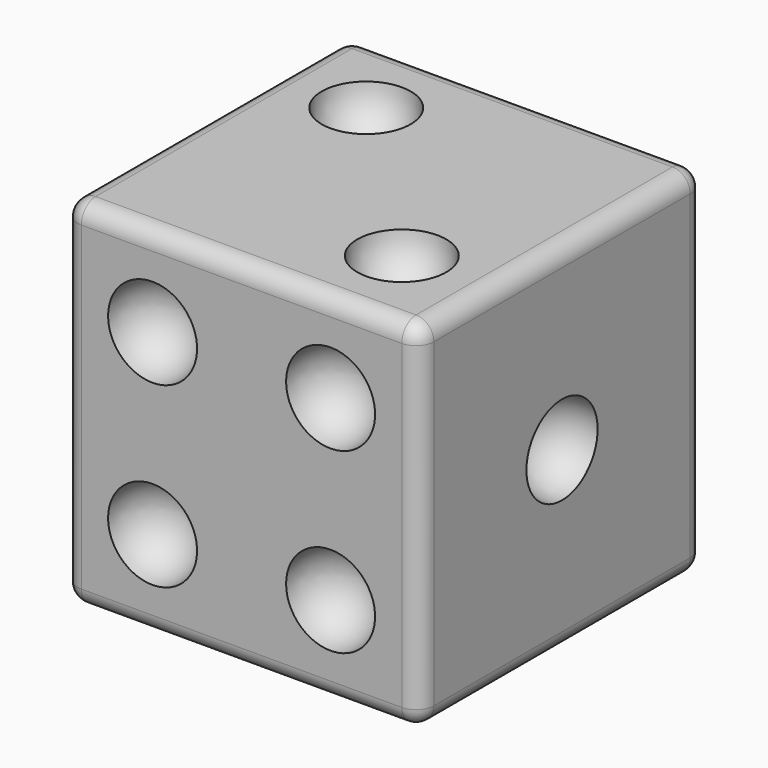
from build123d import *

# Parameters (mm, degrees)
SKETCH_W  = 20
SKETCH_H  = 20
PAD_DEPTH = 20
FILLET_R  = 1


with BuildPart() as part:
    # Sketch → Pad (new body)
    with BuildSketch(Plane.XY):
        Rectangle(SKETCH_W, SKETCH_H)
    extrude(amount=PAD_DEPTH)

    # Sphere015 → Sphere015 (revolve, cut)
    with BuildSketch(Plane(origin=(-10, 5, 4), x_dir=(0, 0, -1), z_dir=(0, -1, 0))):
        with BuildLine():
            ThreePointArc((0, -2.5), (2.5, 0), (0, 2.5))
            Line((0, 2.5), (0, -2.5))
        make_face()
    revolve(axis=Axis((-10, 5, 4), (1, 0, 0)), mode=Mode.SUBTRACT)

    # Sphere016 → Sphere016 (revolve, cut)
    with BuildSketch(Plane(origin=(-10, -5, 4), x_dir=(0, 0, 1), z_dir=(0, 1, 0))):
        with BuildLine():
            ThreePointArc((0, -2.5), (2.5, 0), (0, 2.5))
            Line((0, 2.5), (0, -2.5))
        make_face()
    revolve(axis=Axis((-10, -5, 4), (1, 0, 0)), mode=Mode.SUBTRACT)

    # Sphere017 → Sphere017 (revolve, cut)
    with BuildSketch(Plane(origin=(-10, -5, 10), x_dir=(0, 0, -1), z_dir=(0, -1, 0))):
        with BuildLine():
            ThreePointArc((0, -2.5), (2.5, 0), (0, 2.5))
            Line((0, 2.5), (0, -2.5))
        make_face()
    revolve(axis=Axis((-10, -5, 10), (1, 0, 0)), mode=Mode.SUBTRACT)

    # Sphere018 → Sphere018 (revolve, cut)
    with BuildSketch(Plane(origin=(-10, -5, 16), x_dir=(0, 0, 1), z_dir=(0, 1, 0))):
        with BuildLine():
            ThreePointArc((0, -2.5), (2.5, 0), (0, 2.5))
            Line((0, 2.5), (0, -2.5))
        make_face()
    revolve(axis=Axis((-10, -5, 16), (1, 0, 0)), mode=Mode.SUBTRACT)

    # Sphere019 → Sphere019 (revolve, cut)
    with BuildSketch(Plane(origin=(-10, 5, 16), x_dir=(0, 0, -1), z_dir=(0, -1, 0))):
        with BuildLine():
            ThreePointArc((0, -2.5), (2.5, 0), (0, 2.5))
            Line((0, 2.5), (0, -2.5))
        make_face()
    revolve(axis=Axis((-10, 5, 16), (1, 0, 0)), mode=Mode.SUBTRACT)

    # Sphere020 → Sphere020 (revolve, cut)
    with BuildSketch(Plane(origin=(-10, 5, 10), x_dir=(0, 0, 1), z_dir=(0, 1, 0))):
        with BuildLine():
            ThreePointArc((0, -2.5), (2.5, 0), (0, 2.5))
            Line((0, 2.5), (0, -2.5))
        make_face()
    revolve(axis=Axis((-10, 5, 10), (1, 0, 0)), mode=Mode.SUBTRACT)

    # Sphere → Sphere (revolve, cut)
    with BuildSketch(Plane(origin=(-6, 6, 0), x_dir=(0, 1, 0), z_dir=(-1, 0, 0))):
        with BuildLine():
            ThreePointArc((0, -2.5), (2.5, 0), (0, 2.5))
            Line((0, 2.5), (0, -2.5))
        make_face()
    revolve(axis=Axis((-6, 6, 0), (0, 0, -1)), mode=Mode.SUBTRACT)

    # Sphere021 → Sphere021 (revolve, cut)
    with BuildSketch(Plane(origin=(6, 6, 0), x_dir=(0, 1, 0), z_dir=(-1, 0, 0))):
        with BuildLine():
            ThreePointArc((0, -2.5), (2.5, 0), (0, 2.5))
            Line((0, 2.5), (0, -2.5))
        make_face()
    revolve(axis=Axis((6, 6, 0), (0, 0, -1)), mode=Mode.SUBTRACT)

    # Sphere022 → Sphere022 (revolve, cut)
    with BuildSketch(Plane.XZ):
        with BuildLine():
            ThreePointArc((0, -2.5), (2.5, 0), (0, 2.5))
            Line((0, 2.5), (0, -2.5))
        make_face()
    revolve(axis=Axis((0, 0, 0), (0, 0, 1)), mode=Mode.SUBTRACT)

    # Sphere023 → Sphere023 (revolve, cut)
    with BuildSketch(Plane(origin=(-6, -6, 0), x_dir=(1, 0, 0), z_dir=(0, 1, 0))):
        with BuildLine():
            ThreePointArc((0, -2.5), (2.5, 0), (0, 2.5))
            Line((0, 2.5), (0, -2.5))
        make_face()
    revolve(axis=Axis((-6, -6, 0), (0, 0, -1)), mode=Mode.SUBTRACT)

    # Sphere024 → Sphere024 (revolve, cut)
    with BuildSketch(Plane(origin=(6, -6, 0), x_dir=(1, 0, 0), z_dir=(0, 1, 0))):
        with BuildLine():
            ThreePointArc((0, -2.5), (2.5, 0), (0, 2.5))
            Line((0, 2.5), (0, -2.5))
        make_face()
    revolve(axis=Axis((6, -6, 0), (0, 0, -1)), mode=Mode.SUBTRACT)

    # Sphere025 → Sphere025 (revolve, cut)
    with BuildSketch(Plane(origin=(5, -10, 5), x_dir=(-1, 0, 0), z_dir=(0, 0, 1))):
        with BuildLine():
            ThreePointArc((0, -2.5), (2.5, 0), (0, 2.5))
            Line((0, 2.5), (0, -2.5))
        make_face()
    revolve(axis=Axis((5, -10, 5), (0, -1, 0)), mode=Mode.SUBTRACT)

    # Sphere026 → Sphere026 (revolve, cut)
    with BuildSketch(Plane(origin=(-5, -10, 5), x_dir=(-1, 0, 0), z_dir=(0, 0, 1))):
        with BuildLine():
            ThreePointArc((0, -2.5), (2.5, 0), (0, 2.5))
            Line((0, 2.5), (0, -2.5))
        make_face()
    revolve(axis=Axis((-5, -10, 5), (0, -1, 0)), mode=Mode.SUBTRACT)

    # Sphere027 → Sphere027 (revolve, cut)
    with BuildSketch(Plane(origin=(-5, -10, 15), x_dir=(-1, 0, 0), z_dir=(0, 0, 1))):
        with BuildLine():
            ThreePointArc((0, -2.5), (2.5, 0), (0, 2.5))
            Line((0, 2.5), (0, -2.5))
        make_face()
    revolve(axis=Axis((-5, -10, 15), (0, -1, 0)), mode=Mode.SUBTRACT)

    # Sphere028 → Sphere028 (revolve, cut)
    with BuildSketch(Plane(origin=(5, -10, 15), x_dir=(-1, 0, 0), z_dir=(0, 0, 1))):
        with BuildLine():
            ThreePointArc((0, -2.5), (2.5, 0), (0, 2.5))
            Line((0, 2.5), (0, -2.5))
        make_face()
    revolve(axis=Axis((5, -10, 15), (0, -1, 0)), mode=Mode.SUBTRACT)

    # Sphere029 → Sphere029 (revolve, cut)
    with BuildSketch(Plane(origin=(5, -5, 20), x_dir=(-1, 0, 0), z_dir=(0, 1, 0))):
        with BuildLine():
            ThreePointArc((0, -2.5), (2.5, 0), (0, 2.5))
            Line((0, 2.5), (0, -2.5))
        make_face()
    revolve(axis=Axis((5, -5, 20), (0, 0, 1)), mode=Mode.SUBTRACT)

    # Sphere030 → Sphere030 (revolve, cut)
    with BuildSketch(Plane(origin=(-5, 5, 20), x_dir=(-1, 0, 0), z_dir=(0, 1, 0))):
        with BuildLine():
            ThreePointArc((0, -2.5), (2.5, 0), (0, 2.5))
            Line((0, 2.5), (0, -2.5))
        make_face()
    revolve(axis=Axis((-5, 5, 20), (0, 0, 1)), mode=Mode.SUBTRACT)

    # Sphere031 → Sphere031 (revolve, cut)
    with BuildSketch(Plane(origin=(-6, 10, 16), x_dir=(-1, 0, 0), z_dir=(0, 0, -1))):
        with BuildLine():
            ThreePointArc((0, -2.5), (2.5, 0), (0, 2.5))
            Line((0, 2.5), (0, -2.5))
        make_face()
    revolve(axis=Axis((-6, 10, 16), (0, 1, 0)), mode=Mode.SUBTRACT)

    # Sphere032 → Sphere032 (revolve, cut)
    with BuildSketch(Plane(origin=(0, 10, 10), x_dir=(-1, 0, 0), z_dir=(0, 0, -1))):
        with BuildLine():
            ThreePointArc((0, -2.5), (2.5, 0), (0, 2.5))
            Line((0, 2.5), (0, -2.5))
        make_face()
    revolve(axis=Axis((0, 10, 10), (0, 1, 0)), mode=Mode.SUBTRACT)

    # Sphere033 → Sphere033 (revolve, cut)
    with BuildSketch(Plane(origin=(6, 10, 4), x_dir=(-1, 0, 0), z_dir=(0, 0, -1))):
        with BuildLine():
            ThreePointArc((0, -2.5), (2.5, 0), (0, 2.5))
            Line((0, 2.5), (0, -2.5))
        make_face()
    revolve(axis=Axis((6, 10, 4), (0, 1, 0)), mode=Mode.SUBTRACT)

    # Sphere034 → Sphere034 (revolve, cut)
    with BuildSketch(Plane(origin=(10, 0, 10), x_dir=(0, 0, -1), z_dir=(0, -1, 0))):
        with BuildLine():
            ThreePointArc((0, -2.5), (2.5, 0), (0, 2.5))
            Line((0, 2.5), (0, -2.5))
        make_face()
    revolve(axis=Axis((10, 0, 10), (1, 0, 0)), mode=Mode.SUBTRACT)

    # Fillet
    fillet_edges = [part.edges().sort_by_distance(p)[0] for p in [
        (10, 0, 20),
        (10, -10, 10),
        (-10, 0, 20),
        (0, -10, 20),
        (0, 10, 20),
        (10, 10, 10),
        (-10, 10, 10),
        (-10, -10, 10),
        (0, -10, 0),
        (10, 0, 0),
        (0, 10, 0),
        (-10, 0, 0),
    ]]
    fillet(fillet_edges, radius=FILLET_R)


solid = part.part
